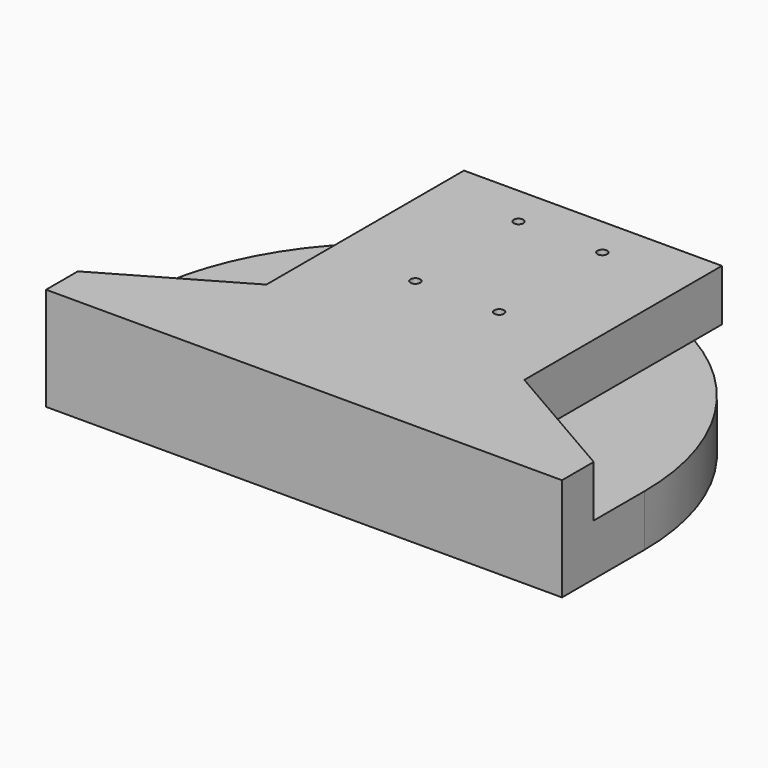
from build123d import *

# Parameters (mm, degrees)
F0_R     = 2.38125
F1_DEPTH = 25.4
F2_DEPTH = 25.4


with BuildPart() as f1:
    # F0 (on Top) → F1 (new body)
    with BuildSketch(Plane.XY):
        with BuildLine():
            ThreePointArc((0, 381), (-32.870019, 376.67258), (-63.5, 363.985226))
            Line((-63.5, 363.985226), (-63.5, 259.4))
            Line((-63.5, 259.4), (-127, 222.738258))
            Line((-127, 222.738258), (-127, 203.2))
            Line((-127, 203.2), (127, 203.2))
            Line((127, 203.2), (127, 222.738258))
            Line((127, 222.738258), (63.5, 259.4))
            Line((63.5, 259.4), (63.5, 363.985226))
            ThreePointArc((63.5, 363.985226), (32.870019, 376.67258), (0, 381))
        make_face()
        with Locations((-20.6375, 297.5)):
            Circle(F0_R, mode=Mode.SUBTRACT)
        with Locations((-20.6375, 361)):
            Circle(F0_R, mode=Mode.SUBTRACT)
        with Locations((20.6375, 297.5)):
            Circle(F0_R, mode=Mode.SUBTRACT)
        with Locations((20.6375, 361)):
            Circle(F0_R, mode=Mode.SUBTRACT)
        with BuildLine():
            Line((0, 381), (-63.5, 381))
            Line((-63.5, 381), (-63.5, 363.985226))
            ThreePointArc((-63.5, 363.985226), (-32.870019, 376.67258), (0, 381))
        make_face()
        with BuildLine():
            Line((63.5, 381), (0, 381))
            ThreePointArc((0, 381), (32.870019, 376.67258), (63.5, 363.985226))
            Line((63.5, 363.985226), (63.5, 381))
        make_face()
    extrude(amount=F1_DEPTH)

    # F0 (on Top) → F2 (join)
    with BuildSketch(Plane.XY):
        with BuildLine():
            ThreePointArc((127, 254), (109.985226, 317.5), (63.5, 363.985226))
            Line((63.5, 363.985226), (63.5, 259.4))
            Line((63.5, 259.4), (127, 222.738258))
            Line((127, 222.738258), (127, 254))
        make_face()
        with BuildLine():
            ThreePointArc((0, 381), (-32.870019, 376.67258), (-63.5, 363.985226))
            Line((-63.5, 363.985226), (-63.5, 259.4))
            Line((-63.5, 259.4), (-127, 222.738258))
            Line((-127, 222.738258), (-127, 203.2))
            Line((-127, 203.2), (127, 203.2))
            Line((127, 203.2), (127, 222.738258))
            Line((127, 222.738258), (63.5, 259.4))
            Line((63.5, 259.4), (63.5, 363.985226))
            ThreePointArc((63.5, 363.985226), (32.870019, 376.67258), (0, 381))
        make_face()
        with Locations((-20.6375, 297.5)):
            Circle(F0_R, mode=Mode.SUBTRACT)
        with Locations((-20.6375, 361)):
            Circle(F0_R, mode=Mode.SUBTRACT)
        with Locations((20.6375, 297.5)):
            Circle(F0_R, mode=Mode.SUBTRACT)
        with Locations((20.6375, 361)):
            Circle(F0_R, mode=Mode.SUBTRACT)
        with BuildLine():
            Line((-63.5, 259.4), (-63.5, 363.985226))
            ThreePointArc((-63.5, 363.985226), (-109.985226, 317.5), (-127, 254))
            Line((-127, 254), (-127, 222.738258))
            Line((-127, 222.738258), (-63.5, 259.4))
        make_face()
    extrude(amount=-F2_DEPTH)


solid = f1.part
